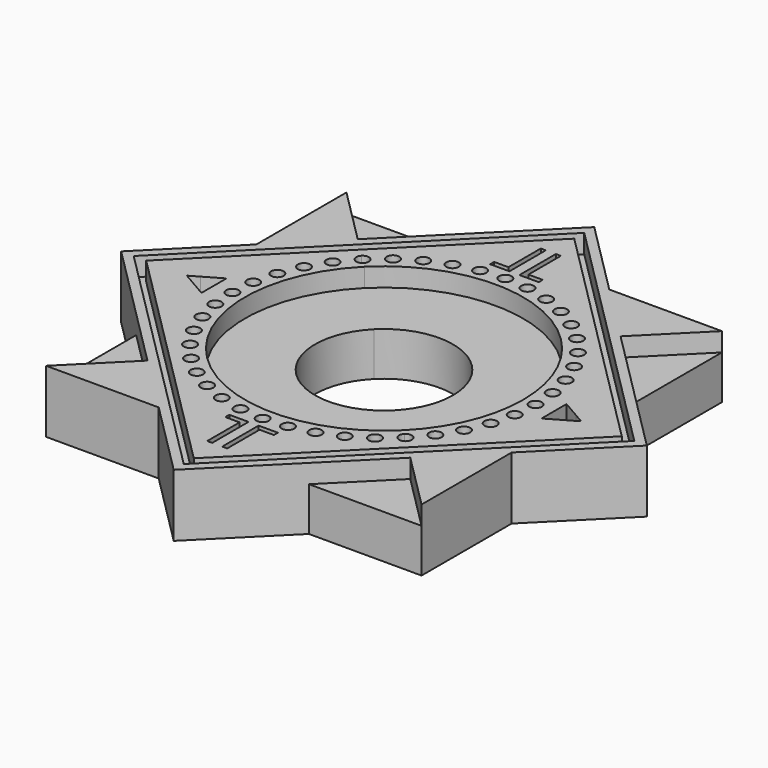
from build123d import *

# Parameters (mm, degrees)
F0_R     = 1
F1_DEPTH = 10
F2_DEPTH = 7
F0_W     = 0.8
F0_H     = 3.3186205251


with BuildPart() as f1:
    # F0 (on Top) → F1 (new body)
    with BuildSketch(Plane.XY):
        with BuildLine():
            ThreePointArc((-15.7154482119, -15.7154482119), (-22.225, 0), (-15.7154482119, 15.7154482119))
            Line((-15.7154482119, 15.7154482119), (-16.4225549931, 16.4225549931))
            ThreePointArc((-16.4225549931, 16.4225549931), (-17.8367685554, 16.4225549931), (-17.8367685554, 17.8367685554))
            Line((-17.8367685554, 17.8367685554), (-19, 19))
            Line((-19, 19), (-30, 8))
            Line((-30, 8), (-30, 0.8660254038))
            Line((-30, 0.8660254038), (-27.1698729811, 2.5))
            Line((-27.1698729811, 2.5), (-27.1698729811, -2.5))
            Line((-27.1698729811, -2.5), (-30, -0.8660254038))
            Line((-30, -0.8660254038), (-30, -8))
            Line((-30, -8), (-19, -19))
            Line((-19, -19), (-17.8367685554, -17.8367685554))
            ThreePointArc((-17.8367685554, -17.8367685554), (-17.8367685554, -16.4225549931), (-16.4225549931, -16.4225549931))
            Line((-16.4225549931, -16.4225549931), (-15.7154482119, -15.7154482119))
        make_face()
        with Locations((-21.5846330485, -10.9979198562)):
            Circle(F0_R, mode=Mode.SUBTRACT)
        with Locations((-23.0393441073, -7.4859366887)):
            Circle(F0_R, mode=Mode.SUBTRACT)
        with Locations((-23.9267500509, -3.7896249156)):
            Circle(F0_R, mode=Mode.SUBTRACT)
        with Locations((-19.5984366887, -14.2390977368)):
            Circle(F0_R, mode=Mode.SUBTRACT)
        with Locations((-24.225, 0)):
            Circle(F0_R, mode=Mode.SUBTRACT)
        with Locations((-23.9267500509, 3.7896249156)):
            Circle(F0_R, mode=Mode.SUBTRACT)
        with Locations((-23.0393441073, 7.4859366887)):
            Circle(F0_R, mode=Mode.SUBTRACT)
        with Locations((-21.5846330485, 10.9979198562)):
            Circle(F0_R, mode=Mode.SUBTRACT)
        with Locations((-19.5984366887, 14.2390977368)):
            Circle(F0_R, mode=Mode.SUBTRACT)
        Polygon((-30, 0.8660254038), (-30, 8), (-38, 0), (-30, -8), (-30, -0.8660254038), (-31.5, 0), align=None)
        with BuildLine():
            ThreePointArc((-15.7154482119, 15.7154482119), (0, 22.225), (15.7154482119, 15.7154482119))
            Line((15.7154482119, 15.7154482119), (16.4225549931, 16.4225549931))
            ThreePointArc((16.4225549931, 16.4225549931), (16.4225549931, 17.8367685554), (17.8367685554, 17.8367685554))
            Line((17.8367685554, 17.8367685554), (19, 19))
            Line((19, 19), (8, 30))
            Line((8, 30), (1.6, 30))
            Line((1.6, 30), (1.6, 26.8516205251))
            Line((1.6, 26.8516205251), (3.8805939459, 26.8516205251))
            Line((3.8805939459, 26.8516205251), (3.8805939459, 26.0516205251))
            Line((3.8805939459, 26.0516205251), (0.8, 26.0516205251))
            Line((0.8, 26.0516205251), (0.8, 30))
            Line((0.8, 30), (-0.8, 30))
            Line((-0.8, 30), (-0.8, 26.0516205251))
            Line((-0.8, 26.0516205251), (-3.8805939459, 26.0516205251))
            Line((-3.8805939459, 26.0516205251), (-3.8805939459, 26.8516205251))
            Line((-3.8805939459, 26.8516205251), (-1.6, 26.8516205251))
            Line((-1.6, 26.8516205251), (-1.6, 30))
            Line((-1.6, 30), (-8, 30))
            Line((-8, 30), (-19, 19))
            Line((-19, 19), (-17.8367685554, 17.8367685554))
            ThreePointArc((-17.8367685554, 17.8367685554), (-16.7469783419, 18.0535413068), (-16.1296617742, 17.1296617742))
            ThreePointArc((-16.1296617742, 17.1296617742), (-16.2057822417, 16.7469783419), (-16.4225549931, 16.4225549931))
            Line((-16.4225549931, 16.4225549931), (-15.7154482119, 15.7154482119))
        make_face()
        with Locations((-14.2390977368, 19.5984366887)):
            Circle(F0_R, mode=Mode.SUBTRACT)
        with Locations((-10.9979198562, 21.5846330485)):
            Circle(F0_R, mode=Mode.SUBTRACT)
        with Locations((-7.4859366887, 23.0393441073)):
            Circle(F0_R, mode=Mode.SUBTRACT)
        with Locations((-3.7896249156, 23.9267500509)):
            Circle(F0_R, mode=Mode.SUBTRACT)
        with Locations((14.2390977368, 19.5984366887)):
            Circle(F0_R, mode=Mode.SUBTRACT)
        with Locations((0, 24.225)):
            Circle(F0_R, mode=Mode.SUBTRACT)
        with Locations((3.7896249156, 23.9267500509)):
            Circle(F0_R, mode=Mode.SUBTRACT)
        with Locations((7.4859366887, 23.0393441073)):
            Circle(F0_R, mode=Mode.SUBTRACT)
        with Locations((10.9979198562, 21.5846330485)):
            Circle(F0_R, mode=Mode.SUBTRACT)
        with BuildLine():
            Line((16.4225549931, 16.4225549931), (15.7154482119, 15.7154482119))
            ThreePointArc((15.7154482119, 15.7154482119), (20.5332226101, 8.5051392843), (22.225, 0))
            ThreePointArc((22.225, 0), (20.5332226101, -8.5051392843), (15.7154482119, -15.7154482119))
            Line((15.7154482119, -15.7154482119), (16.4225549931, -16.4225549931))
            ThreePointArc((16.4225549931, -16.4225549931), (17.5123452066, -16.2057822417), (18.1296617742, -17.1296617742))
            ThreePointArc((18.1296617742, -17.1296617742), (18.0535413068, -17.5123452066), (17.8367685554, -17.8367685554))
            Line((17.8367685554, -17.8367685554), (19, -19))
            Line((19, -19), (30, -8))
            Line((30, -8), (30, -0.8660254038))
            Line((30, -0.8660254038), (27.1698729811, -2.5))
            Line((27.1698729811, -2.5), (27.1698729811, 2.5))
            Line((27.1698729811, 2.5), (30, 0.8660254038))
            Line((30, 0.8660254038), (30, 8))
            Line((30, 8), (19, 19))
            Line((19, 19), (17.8367685554, 17.8367685554))
            ThreePointArc((17.8367685554, 17.8367685554), (18.0535413068, 17.5123452066), (18.1296617742, 17.1296617742))
            ThreePointArc((18.1296617742, 17.1296617742), (17.5123452066, 16.2057822417), (16.4225549931, 16.4225549931))
        make_face()
        with Locations((19.5984366887, -14.2390977368)):
            Circle(F0_R, mode=Mode.SUBTRACT)
        with Locations((21.5846330485, -10.9979198562)):
            Circle(F0_R, mode=Mode.SUBTRACT)
        with Locations((23.0393441073, -7.4859366887)):
            Circle(F0_R, mode=Mode.SUBTRACT)
        with Locations((23.9267500509, -3.7896249156)):
            Circle(F0_R, mode=Mode.SUBTRACT)
        with Locations((19.5984366887, 14.2390977368)):
            Circle(F0_R, mode=Mode.SUBTRACT)
        with Locations((24.225, 0)):
            Circle(F0_R, mode=Mode.SUBTRACT)
        with Locations((23.9267500509, 3.7896249156)):
            Circle(F0_R, mode=Mode.SUBTRACT)
        with Locations((23.0393441073, 7.4859366887)):
            Circle(F0_R, mode=Mode.SUBTRACT)
        with Locations((21.5846330485, 10.9979198562)):
            Circle(F0_R, mode=Mode.SUBTRACT)
        Polygon((38, 0), (30, 8), (30, 0.8660254038), (31.5, 0), (30, -0.8660254038), (30, -8), align=None)
        with BuildLine():
            Line((16.4225549931, -16.4225549931), (15.7154482119, -15.7154482119))
            ThreePointArc((15.7154482119, -15.7154482119), (0, -22.225), (-15.7154482119, -15.7154482119))
            Line((-15.7154482119, -15.7154482119), (-16.4225549931, -16.4225549931))
            ThreePointArc((-16.4225549931, -16.4225549931), (-16.2057822417, -16.7469783419), (-16.1296617742, -17.1296617742))
            ThreePointArc((-16.1296617742, -17.1296617742), (-16.7469783419, -18.0535413068), (-17.8367685554, -17.8367685554))
            Line((-17.8367685554, -17.8367685554), (-19, -19))
            Line((-19, -19), (-8, -30))
            Line((-8, -30), (-1.6, -30))
            Line((-1.6, -30), (-1.6, -26.8516205251))
            Line((-1.6, -26.8516205251), (-3.8805939459, -26.8516205251))
            Line((-3.8805939459, -26.8516205251), (-3.8805939459, -26.0516205251))
            Line((-3.8805939459, -26.0516205251), (-0.8, -26.0516205251))
            Line((-0.8, -26.0516205251), (-0.8, -30))
            Line((-0.8, -30), (0.8, -30))
            Line((0.8, -30), (0.8, -26.0516205251))
            Line((0.8, -26.0516205251), (3.8805939459, -26.0516205251))
            Line((3.8805939459, -26.0516205251), (3.8805939459, -26.8516205251))
            Line((3.8805939459, -26.8516205251), (1.6, -26.8516205251))
            Line((1.6, -26.8516205251), (1.6, -30))
            Line((1.6, -30), (8, -30))
            Line((8, -30), (19, -19))
            Line((19, -19), (17.8367685554, -17.8367685554))
            ThreePointArc((17.8367685554, -17.8367685554), (16.4225549931, -17.8367685554), (16.4225549931, -16.4225549931))
        make_face()
        with Locations((-10.9979198562, -21.5846330485)):
            Circle(F0_R, mode=Mode.SUBTRACT)
        with Locations((-7.4859366887, -23.0393441073)):
            Circle(F0_R, mode=Mode.SUBTRACT)
        with Locations((-3.7896249156, -23.9267500509)):
            Circle(F0_R, mode=Mode.SUBTRACT)
        with Locations((-14.2390977368, -19.5984366887)):
            Circle(F0_R, mode=Mode.SUBTRACT)
        with Locations((0, -24.225)):
            Circle(F0_R, mode=Mode.SUBTRACT)
        with Locations((3.7896249156, -23.9267500509)):
            Circle(F0_R, mode=Mode.SUBTRACT)
        with Locations((7.4859366887, -23.0393441073)):
            Circle(F0_R, mode=Mode.SUBTRACT)
        with Locations((10.9979198562, -21.5846330485)):
            Circle(F0_R, mode=Mode.SUBTRACT)
        with Locations((14.2390977368, -19.5984366887)):
            Circle(F0_R, mode=Mode.SUBTRACT)
        Polygon((0, -38), (8, -30), (1.6, -30), (1.6, -33.3186205251), (0.8, -33.3186205251), (0.8, -30), (-0.8, -30), (-0.8, -33.3186205251), (-1.6, -33.3186205251), (-1.6, -30), (-8, -30), align=None)
        Polygon((1.6, 30), (8, 30), (0, 38), (-8, 30), (-1.6, 30), (-1.6, 33.3186205251), (-0.8, 33.3186205251), (-0.8, 30), (0.8, 30), (0.8, 33.3186205251), (1.6, 33.3186205251), align=None)
    extrude(amount=F1_DEPTH)


with BuildPart() as f1b:
    # F0 (on Top) → F1, piece 2 (new body)
    with BuildSketch(Plane.XY):
        Polygon((-30, 10), (-20, 20), (-21, 21), (-30, 12), align=None)
        Polygon((-40, 0), (-30, 10), (-30, 12), (-42, 0), (-30, -12), (-30, -10), align=None)
        Polygon((-21, -21), (-20, -20), (-30, -10), (-30, -12), align=None)
        Polygon((-10, -30), (-20, -20), (-21, -21), (-12, -30), align=None)
        Polygon((12, -30), (10, -30), (0, -40), (-10, -30), (-12, -30), (0, -42), align=None)
        Polygon((30, -10), (20, -20), (21, -21), (30, -12), align=None)
        Polygon((21, -21), (20, -20), (10, -30), (12, -30), align=None)
        Polygon((30, 12), (30, 10), (40, 0), (30, -10), (30, -12), (42, 0), align=None)
        Polygon((21, 21), (20, 20), (30, 10), (30, 12), align=None)
        Polygon((10, 30), (20, 20), (21, 21), (12, 30), align=None)
        Polygon((0, 40), (10, 30), (12, 30), (0, 42), (-12, 30), (-10, 30), align=None)
        Polygon((-21, 21), (-20, 20), (-10, 30), (-12, 30), align=None)
        Polygon((-30, 12), (-21, 21), (-30, 30), align=None)
        Polygon((12, 30), (21, 21), (30, 30), align=None)
        Polygon((30, -12), (21, -21), (30, -30), align=None)
        Polygon((-12, -30), (-21, -21), (-30, -30), align=None)
    extrude(amount=F1_DEPTH)


with BuildPart() as f2:
    # F0 (on Top) → F2 (new body)
    with BuildSketch(Plane.XY):
        Polygon((30, -30), (21, -21), (12, -30), align=None)
    extrude(amount=F2_DEPTH)


with BuildPart() as f2b:
    # F0 (on Top) → F2, piece 2 (new body)
    with BuildSketch(Plane.XY):
        Polygon((-30, -30), (-21, -21), (-30, -12), align=None)
    extrude(amount=F2_DEPTH)


with BuildPart() as f2c:
    # F0 (on Top) → F2, piece 3 (new body)
    with BuildSketch(Plane.XY):
        Polygon((30, -8), (19, -19), (20, -20), (30, -10), align=None)
        Polygon((30, 10), (30, 8), (38, 0), (30, -8), (30, -10), (40, 0), align=None)
        Polygon((20, 20), (19, 19), (30, 8), (30, 10), align=None)
        Polygon((8, 30), (19, 19), (20, 20), (10, 30), align=None)
        Polygon((0, 38), (8, 30), (10, 30), (0, 40), (-10, 30), (-8, 30), align=None)
        Polygon((-20, 20), (-19, 19), (-8, 30), (-10, 30), align=None)
        Polygon((-30, 8), (-19, 19), (-20, 20), (-30, 10), align=None)
        Polygon((-38, 0), (-30, 8), (-30, 10), (-40, 0), (-30, -10), (-30, -8), align=None)
        Polygon((-20, -20), (-19, -19), (-30, -8), (-30, -10), align=None)
        Polygon((-8, -30), (-19, -19), (-20, -20), (-10, -30), align=None)
        Polygon((20, -20), (19, -19), (8, -30), (10, -30), align=None)
        Polygon((10, -30), (8, -30), (0, -38), (-8, -30), (-10, -30), (0, -40), align=None)
    extrude(amount=F2_DEPTH)


with BuildPart() as f2d:
    # F0 (on Top) → F2, piece 4 (new body)
    with BuildSketch(Plane.XY):
        Polygon((0.8, -30), (1.6, -30), (1.6, -26.8516205251), (3.8805939459, -26.8516205251), (3.8805939459, -26.0516205251), (0.8, -26.0516205251), align=None)
        with Locations((1.2, -31.6593102626)):
            Rectangle(F0_W, F0_H)
    extrude(amount=F2_DEPTH)


with BuildPart() as f2e:
    # F0 (on Top) → F2, piece 5 (new body)
    with BuildSketch(Plane.XY):
        Polygon((-1.6, -26.8516205251), (-1.6, -30), (-0.8, -30), (-0.8, -26.0516205251), (-3.8805939459, -26.0516205251), (-3.8805939459, -26.8516205251), align=None)
        with Locations((-1.2, -31.6593102626)):
            Rectangle(F0_W, F0_H)
    extrude(amount=F2_DEPTH)


with BuildPart() as f2f:
    # F0 (on Top) → F2, piece 6 (new body)
    with BuildSketch(Plane.XY):
        Polygon((30, -0.8660254038), (30, 0.8660254038), (27.1698729811, 2.5), (27.1698729811, -2.5), align=None)
        Polygon((31.5, 0), (30, 0.8660254038), (30, -0.8660254038), align=None)
    extrude(amount=F2_DEPTH)


with BuildPart() as f2g:
    # F0 (on Top) → F2, piece 7 (new body)
    with BuildSketch(Plane.XY):
        Polygon((-27.1698729811, 2.5), (-30, 0.8660254038), (-30, -0.8660254038), (-27.1698729811, -2.5), align=None)
        Polygon((-30, -0.8660254038), (-30, 0.8660254038), (-31.5, 0), align=None)
    extrude(amount=F2_DEPTH)


with BuildPart() as f2h:
    # F0 (on Top) → F2, piece 8 (new body)
    with BuildSketch(Plane.XY):
        Polygon((1.6, 26.8516205251), (1.6, 30), (0.8, 30), (0.8, 26.0516205251), (3.8805939459, 26.0516205251), (3.8805939459, 26.8516205251), align=None)
        with Locations((1.2, 31.6593102626)):
            Rectangle(F0_W, F0_H)
    extrude(amount=F2_DEPTH)


with BuildPart() as f2i:
    # F0 (on Top) → F2, piece 9 (new body)
    with BuildSketch(Plane.XY):
        Polygon((-0.8, 30), (-1.6, 30), (-1.6, 26.8516205251), (-3.8805939459, 26.8516205251), (-3.8805939459, 26.0516205251), (-0.8, 26.0516205251), align=None)
        with Locations((-1.2, 31.6593102626)):
            Rectangle(F0_W, F0_H)
    extrude(amount=F2_DEPTH)


with BuildPart() as f2j:
    # F0 (on Top) → F2, piece 10 (new body)
    with BuildSketch(Plane.XY):
        Polygon((-30, 30), (-21, 21), (-12, 30), align=None)
    extrude(amount=F2_DEPTH)


with BuildPart() as f2k:
    # F0 (on Top) → F2, piece 11 (new body)
    with BuildSketch(Plane.XY):
        Polygon((30, 30), (21, 21), (30, 12), align=None)
    extrude(amount=F2_DEPTH)


with BuildPart() as f2l:
    # F0 (on Top) → F2, piece 12 (new body)
    with BuildSketch(Plane.XY):
        with Locations((0, 24.225)):
            Circle(F0_R)
    extrude(amount=F2_DEPTH)


with BuildPart() as f2m:
    # F0 (on Top) → F2, piece 13 (new body)
    with BuildSketch(Plane.XY):
        with Locations((-3.7896249156, 23.9267500509)):
            Circle(F0_R)
    extrude(amount=F2_DEPTH)


with BuildPart() as f2n:
    # F0 (on Top) → F2, piece 14 (new body)
    with BuildSketch(Plane.XY):
        with Locations((-7.4859366887, 23.0393441073)):
            Circle(F0_R)
    extrude(amount=F2_DEPTH)


with BuildPart() as f2o:
    # F0 (on Top) → F2, piece 15 (new body)
    with BuildSketch(Plane.XY):
        with BuildLine():
            ThreePointArc((-17.8367685554, 17.8367685554), (-17.8367685554, 16.4225549931), (-16.4225549931, 16.4225549931))
            Line((-16.4225549931, 16.4225549931), (-17.8367685554, 17.8367685554))
        make_face()
        with BuildLine():
            Line((-17.8367685554, 17.8367685554), (-16.4225549931, 16.4225549931))
            ThreePointArc((-16.4225549931, 16.4225549931), (-16.2057822417, 16.7469783419), (-16.1296617742, 17.1296617742))
            ThreePointArc((-16.1296617742, 17.1296617742), (-16.7469783419, 18.0535413068), (-17.8367685554, 17.8367685554))
        make_face()
    extrude(amount=F2_DEPTH)


with BuildPart() as f2p:
    # F0 (on Top) → F2, piece 16 (new body)
    with BuildSketch(Plane.XY):
        with Locations((-10.9979198562, 21.5846330485)):
            Circle(F0_R)
    extrude(amount=F2_DEPTH)


with BuildPart() as f2q:
    # F0 (on Top) → F2, piece 17 (new body)
    with BuildSketch(Plane.XY):
        with Locations((-14.2390977368, 19.5984366887)):
            Circle(F0_R)
    extrude(amount=F2_DEPTH)


with BuildPart() as f2r:
    # F0 (on Top) → F2, piece 18 (new body)
    with BuildSketch(Plane.XY):
        with Locations((-19.5984366887, 14.2390977368)):
            Circle(F0_R)
    extrude(amount=F2_DEPTH)


with BuildPart() as f2s:
    # F0 (on Top) → F2, piece 19 (new body)
    with BuildSketch(Plane.XY):
        with Locations((-21.5846330485, 10.9979198562)):
            Circle(F0_R)
    extrude(amount=F2_DEPTH)


with BuildPart() as f2t:
    # F0 (on Top) → F2, piece 20 (new body)
    with BuildSketch(Plane.XY):
        with Locations((-23.9267500509, 3.7896249156)):
            Circle(F0_R)
    extrude(amount=F2_DEPTH)


with BuildPart() as f2u:
    # F0 (on Top) → F2, piece 21 (new body)
    with BuildSketch(Plane.XY):
        with Locations((-24.225, 0)):
            Circle(F0_R)
    extrude(amount=F2_DEPTH)


with BuildPart() as f2v:
    # F0 (on Top) → F2, piece 22 (new body)
    with BuildSketch(Plane.XY):
        with Locations((-23.0393441073, 7.4859366887)):
            Circle(F0_R)
    extrude(amount=F2_DEPTH)


with BuildPart() as f2w:
    # F0 (on Top) → F2, piece 23 (new body)
    with BuildSketch(Plane.XY):
        with Locations((-23.9267500509, -3.7896249156)):
            Circle(F0_R)
    extrude(amount=F2_DEPTH)


with BuildPart() as f2x:
    # F0 (on Top) → F2, piece 24 (new body)
    with BuildSketch(Plane.XY):
        with Locations((-23.0393441073, -7.4859366887)):
            Circle(F0_R)
    extrude(amount=F2_DEPTH)


with BuildPart() as f2y:
    # F0 (on Top) → F2, piece 25 (new body)
    with BuildSketch(Plane.XY):
        with Locations((-21.5846330485, -10.9979198562)):
            Circle(F0_R)
    extrude(amount=F2_DEPTH)


with BuildPart() as f2z:
    # F0 (on Top) → F2, piece 26 (new body)
    with BuildSketch(Plane.XY):
        with Locations((-19.5984366887, -14.2390977368)):
            Circle(F0_R)
    extrude(amount=F2_DEPTH)


with BuildPart() as f2ba:
    # F0 (on Top) → F2, piece 27 (new body)
    with BuildSketch(Plane.XY):
        with BuildLine():
            ThreePointArc((-16.1296617742, -17.1296617742), (-16.2057822417, -16.7469783419), (-16.4225549931, -16.4225549931))
            Line((-16.4225549931, -16.4225549931), (-17.8367685554, -17.8367685554))
            ThreePointArc((-17.8367685554, -17.8367685554), (-16.7469783419, -18.0535413068), (-16.1296617742, -17.1296617742))
        make_face()
        with BuildLine():
            Line((-17.8367685554, -17.8367685554), (-16.4225549931, -16.4225549931))
            ThreePointArc((-16.4225549931, -16.4225549931), (-17.8367685554, -16.4225549931), (-17.8367685554, -17.8367685554))
        make_face()
    extrude(amount=F2_DEPTH)


with BuildPart() as f2bb:
    # F0 (on Top) → F2, piece 28 (new body)
    with BuildSketch(Plane.XY):
        with Locations((-14.2390977368, -19.5984366887)):
            Circle(F0_R)
    extrude(amount=F2_DEPTH)


with BuildPart() as f2bc:
    # F0 (on Top) → F2, piece 29 (new body)
    with BuildSketch(Plane.XY):
        with Locations((-10.9979198562, -21.5846330485)):
            Circle(F0_R)
    extrude(amount=F2_DEPTH)


with BuildPart() as f2bd:
    # F0 (on Top) → F2, piece 30 (new body)
    with BuildSketch(Plane.XY):
        with Locations((-7.4859366887, -23.0393441073)):
            Circle(F0_R)
    extrude(amount=F2_DEPTH)


with BuildPart() as f2be:
    # F0 (on Top) → F2, piece 31 (new body)
    with BuildSketch(Plane.XY):
        with Locations((-3.7896249156, -23.9267500509)):
            Circle(F0_R)
    extrude(amount=F2_DEPTH)


with BuildPart() as f2bf:
    # F0 (on Top) → F2, piece 32 (new body)
    with BuildSketch(Plane.XY):
        with Locations((0, -24.225)):
            Circle(F0_R)
    extrude(amount=F2_DEPTH)


with BuildPart() as f2bg:
    # F0 (on Top) → F2, piece 33 (new body)
    with BuildSketch(Plane.XY):
        with Locations((3.7896249156, -23.9267500509)):
            Circle(F0_R)
    extrude(amount=F2_DEPTH)


with BuildPart() as f2bh:
    # F0 (on Top) → F2, piece 34 (new body)
    with BuildSketch(Plane.XY):
        with Locations((7.4859366887, -23.0393441073)):
            Circle(F0_R)
    extrude(amount=F2_DEPTH)


with BuildPart() as f2bi:
    # F0 (on Top) → F2, piece 35 (new body)
    with BuildSketch(Plane.XY):
        with Locations((10.9979198562, -21.5846330485)):
            Circle(F0_R)
    extrude(amount=F2_DEPTH)


with BuildPart() as f2bj:
    # F0 (on Top) → F2, piece 36 (new body)
    with BuildSketch(Plane.XY):
        with Locations((14.2390977368, -19.5984366887)):
            Circle(F0_R)
    extrude(amount=F2_DEPTH)


with BuildPart() as f2bk:
    # F0 (on Top) → F2, piece 37 (new body)
    with BuildSketch(Plane.XY):
        with BuildLine():
            Line((17.8367685554, -17.8367685554), (16.4225549931, -16.4225549931))
            ThreePointArc((16.4225549931, -16.4225549931), (16.4225549931, -17.8367685554), (17.8367685554, -17.8367685554))
        make_face()
        with BuildLine():
            ThreePointArc((18.1296617742, -17.1296617742), (17.5123452066, -16.2057822417), (16.4225549931, -16.4225549931))
            Line((16.4225549931, -16.4225549931), (17.8367685554, -17.8367685554))
            ThreePointArc((17.8367685554, -17.8367685554), (18.0535413068, -17.5123452066), (18.1296617742, -17.1296617742))
        make_face()
    extrude(amount=F2_DEPTH)


with BuildPart() as f2bl:
    # F0 (on Top) → F2, piece 38 (new body)
    with BuildSketch(Plane.XY):
        with Locations((19.5984366887, -14.2390977368)):
            Circle(F0_R)
    extrude(amount=F2_DEPTH)


with BuildPart() as f2bm:
    # F0 (on Top) → F2, piece 39 (new body)
    with BuildSketch(Plane.XY):
        with Locations((21.5846330485, -10.9979198562)):
            Circle(F0_R)
    extrude(amount=F2_DEPTH)


with BuildPart() as f2bn:
    # F0 (on Top) → F2, piece 40 (new body)
    with BuildSketch(Plane.XY):
        with Locations((23.0393441073, -7.4859366887)):
            Circle(F0_R)
    extrude(amount=F2_DEPTH)


with BuildPart() as f2bo:
    # F0 (on Top) → F2, piece 41 (new body)
    with BuildSketch(Plane.XY):
        with Locations((23.9267500509, -3.7896249156)):
            Circle(F0_R)
    extrude(amount=F2_DEPTH)


with BuildPart() as f2bp:
    # F0 (on Top) → F2, piece 42 (new body)
    with BuildSketch(Plane.XY):
        with Locations((24.225, 0)):
            Circle(F0_R)
    extrude(amount=F2_DEPTH)


with BuildPart() as f2bq:
    # F0 (on Top) → F2, piece 43 (new body)
    with BuildSketch(Plane.XY):
        with Locations((23.9267500509, 3.7896249156)):
            Circle(F0_R)
    extrude(amount=F2_DEPTH)


with BuildPart() as f2br:
    # F0 (on Top) → F2, piece 44 (new body)
    with BuildSketch(Plane.XY):
        with Locations((23.0393441073, 7.4859366887)):
            Circle(F0_R)
    extrude(amount=F2_DEPTH)


with BuildPart() as f2bs:
    # F0 (on Top) → F2, piece 45 (new body)
    with BuildSketch(Plane.XY):
        with Locations((19.5984366887, 14.2390977368)):
            Circle(F0_R)
    extrude(amount=F2_DEPTH)


with BuildPart() as f2bt:
    # F0 (on Top) → F2, piece 46 (new body)
    with BuildSketch(Plane.XY):
        with Locations((21.5846330485, 10.9979198562)):
            Circle(F0_R)
    extrude(amount=F2_DEPTH)


with BuildPart() as f2bu:
    # F0 (on Top) → F2, piece 47 (new body)
    with BuildSketch(Plane.XY):
        with BuildLine():
            Line((17.8367685554, 17.8367685554), (16.4225549931, 16.4225549931))
            ThreePointArc((16.4225549931, 16.4225549931), (17.5123452066, 16.2057822417), (18.1296617742, 17.1296617742))
            ThreePointArc((18.1296617742, 17.1296617742), (18.0535413068, 17.5123452066), (17.8367685554, 17.8367685554))
        make_face()
        with BuildLine():
            ThreePointArc((17.8367685554, 17.8367685554), (16.4225549931, 17.8367685554), (16.4225549931, 16.4225549931))
            Line((16.4225549931, 16.4225549931), (17.8367685554, 17.8367685554))
        make_face()
    extrude(amount=F2_DEPTH)


with BuildPart() as f2bv:
    # F0 (on Top) → F2, piece 48 (new body)
    with BuildSketch(Plane.XY):
        with Locations((14.2390977368, 19.5984366887)):
            Circle(F0_R)
    extrude(amount=F2_DEPTH)


with BuildPart() as f2bw:
    # F0 (on Top) → F2, piece 49 (new body)
    with BuildSketch(Plane.XY):
        with Locations((10.9979198562, 21.5846330485)):
            Circle(F0_R)
    extrude(amount=F2_DEPTH)


with BuildPart() as f2bx:
    # F0 (on Top) → F2, piece 50 (new body)
    with BuildSketch(Plane.XY):
        with Locations((7.4859366887, 23.0393441073)):
            Circle(F0_R)
    extrude(amount=F2_DEPTH)


with BuildPart() as f2by:
    # F0 (on Top) → F2, piece 51 (new body)
    with BuildSketch(Plane.XY):
        with Locations((3.7896249156, 23.9267500509)):
            Circle(F0_R)
    extrude(amount=F2_DEPTH)


with BuildPart() as f2bz:
    # F0 (on Top) → F2, piece 52 (new body)
    with BuildSketch(Plane.XY):
        with BuildLine():
            ThreePointArc((7.7958522626, 7.7958522626), (10.1857718459, 4.2190848418), (11.025, 0))
            ThreePointArc((11.025, 0), (10.1857718459, -4.2190848418), (7.7958522626, -7.7958522626))
            Line((7.7958522626, -7.7958522626), (15.7154482119, -15.7154482119))
            ThreePointArc((15.7154482119, -15.7154482119), (20.5332226101, -8.5051392843), (22.225, 0))
            ThreePointArc((22.225, 0), (20.5332226101, 8.5051392843), (15.7154482119, 15.7154482119))
            Line((15.7154482119, 15.7154482119), (7.7958522626, 7.7958522626))
        make_face()
        with BuildLine():
            ThreePointArc((-7.7958522626, 7.7958522626), (0, 11.025), (7.7958522626, 7.7958522626))
            Line((7.7958522626, 7.7958522626), (15.7154482119, 15.7154482119))
            ThreePointArc((15.7154482119, 15.7154482119), (0, 22.225), (-15.7154482119, 15.7154482119))
            Line((-15.7154482119, 15.7154482119), (-7.7958522626, 7.7958522626))
        make_face()
        with BuildLine():
            ThreePointArc((-7.7958522626, -7.7958522626), (-11.025, 0), (-7.7958522626, 7.7958522626))
            Line((-7.7958522626, 7.7958522626), (-15.7154482119, 15.7154482119))
            ThreePointArc((-15.7154482119, 15.7154482119), (-22.225, 0), (-15.7154482119, -15.7154482119))
            Line((-15.7154482119, -15.7154482119), (-7.7958522626, -7.7958522626))
        make_face()
        with BuildLine():
            Line((15.7154482119, -15.7154482119), (7.7958522626, -7.7958522626))
            ThreePointArc((7.7958522626, -7.7958522626), (0, -11.025), (-7.7958522626, -7.7958522626))
            Line((-7.7958522626, -7.7958522626), (-15.7154482119, -15.7154482119))
            ThreePointArc((-15.7154482119, -15.7154482119), (0, -22.225), (15.7154482119, -15.7154482119))
        make_face()
    extrude(amount=F2_DEPTH)


solid = Compound([f1.part, f1b.part, f2.part, f2b.part, f2c.part, f2d.part, f2e.part, f2f.part, f2g.part, f2h.part, f2i.part, f2j.part, f2k.part, f2l.part, f2m.part, f2n.part, f2o.part, f2p.part, f2q.part, f2r.part, f2s.part, f2t.part, f2u.part, f2v.part, f2w.part, f2x.part, f2y.part, f2z.part, f2ba.part, f2bb.part, f2bc.part, f2bd.part, f2be.part, f2bf.part, f2bg.part, f2bh.part, f2bi.part, f2bj.part, f2bk.part, f2bl.part, f2bm.part, f2bn.part, f2bo.part, f2bp.part, f2bq.part, f2br.part, f2bs.part, f2bt.part, f2bu.part, f2bv.part, f2bw.part, f2bx.part, f2by.part, f2bz.part])
